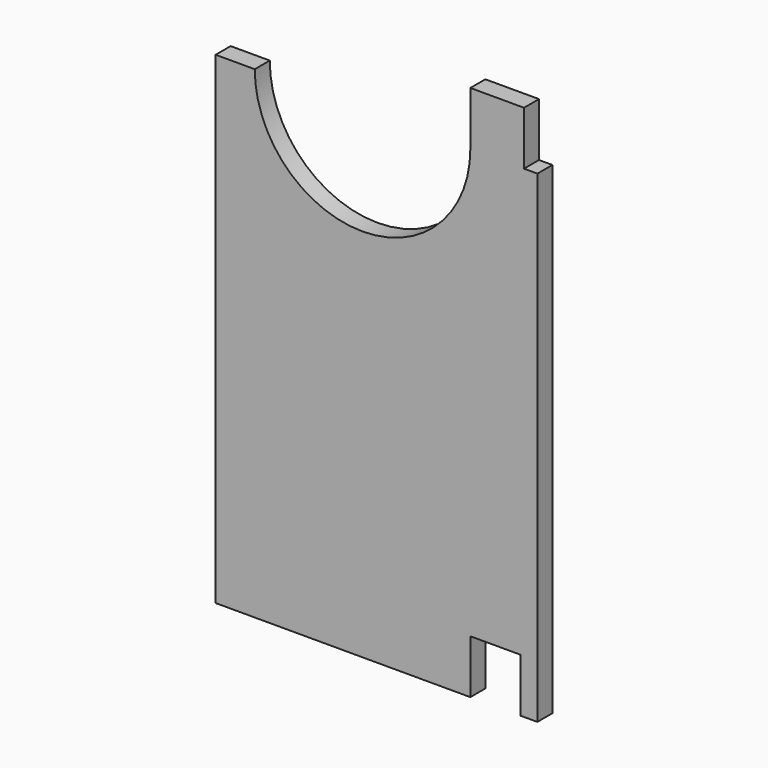
from build123d import *

# Parameters (mm, degrees)
F1_DEPTH = 4.445


with BuildPart() as f1:
    # F0 (on Front) → F1 (new body)
    with BuildSketch(Plane.XZ):
        with BuildLine():
            Line((-34.370821, 217.297887), (-43.641821, 217.297887))
            Line((-43.641821, 217.297887), (-43.641821, 102.997887))
            Line((-43.641821, 102.997887), (16.683179, 102.997887))
            Line((16.683179, 102.997887), (16.683179, 115.697887))
            Line((16.683179, 115.697887), (28.589429, 115.697887))
            Line((28.589429, 115.697887), (28.589429, 102.997887))
            Line((28.589429, 102.997887), (29.383179, 102.997887))
            Line((29.383179, 102.997887), (32.558179, 102.997887))
            Line((32.558179, 102.997887), (32.558179, 217.297887))
            Line((32.558179, 217.297887), (29.383179, 217.297887))
            Line((29.383179, 217.297887), (29.383179, 229.997887))
            Line((29.383179, 229.997887), (16.683179, 229.997887))
            Line((16.683179, 229.997887), (16.683179, 217.297887))
            ThreePointArc((16.683179, 217.297887), (-8.843821, 191.770887), (-34.370821, 217.297887))
        make_face()
        with BuildLine():
            Line((-34.370821, 217.297887), (-43.641821, 217.297887))
            Line((-43.641821, 217.297887), (-43.641821, 102.997887))
            Line((-43.641821, 102.997887), (16.683179, 102.997887))
            Line((16.683179, 102.997887), (16.683179, 115.697887))
            Line((16.683179, 115.697887), (28.589429, 115.697887))
            Line((28.589429, 115.697887), (28.589429, 102.997887))
            Line((28.589429, 102.997887), (29.383179, 102.997887))
            Line((29.383179, 102.997887), (32.558179, 102.997887))
            Line((32.558179, 102.997887), (32.558179, 217.297887))
            Line((32.558179, 217.297887), (29.383179, 217.297887))
            Line((29.383179, 217.297887), (29.383179, 229.997887))
            Line((29.383179, 229.997887), (16.683179, 229.997887))
            Line((16.683179, 229.997887), (16.683179, 217.297887))
            ThreePointArc((16.683179, 217.297887), (-8.843821, 191.770887), (-34.370821, 217.297887))
        make_face()
    extrude(amount=F1_DEPTH)


solid = f1.part
